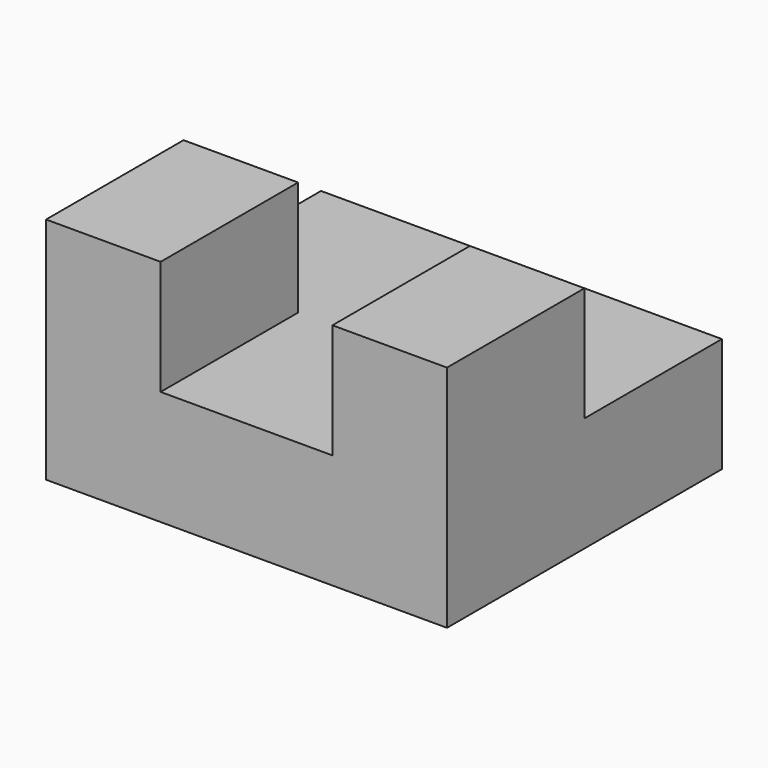
from build123d import *

# Parameters (mm, degrees)
F0_W     = 88.9
F0_H     = 25.4
F1_DEPTH = 76.2
F2_W     = 25.4
F2_H     = 25.4
F3_DEPTH = 38.1


with BuildPart() as f1:
    # F0 (on Front) → F1 (new body)
    with BuildSketch(Plane.XZ):
        with Locations((2e-06, -31.096577)):
            Rectangle(F0_W, F0_H)
    extrude(amount=F1_DEPTH)

    # F2 (on face) → F3 (join)
    with BuildSketch(Plane.XZ.offset(76.2)):
        with Locations((-31.749998, -5.696577)):
            Rectangle(F2_W, F2_H)
        with Locations((31.750002, -5.696577)):
            Rectangle(F2_W, F2_H)
    extrude(amount=-F3_DEPTH)


solid = f1.part
